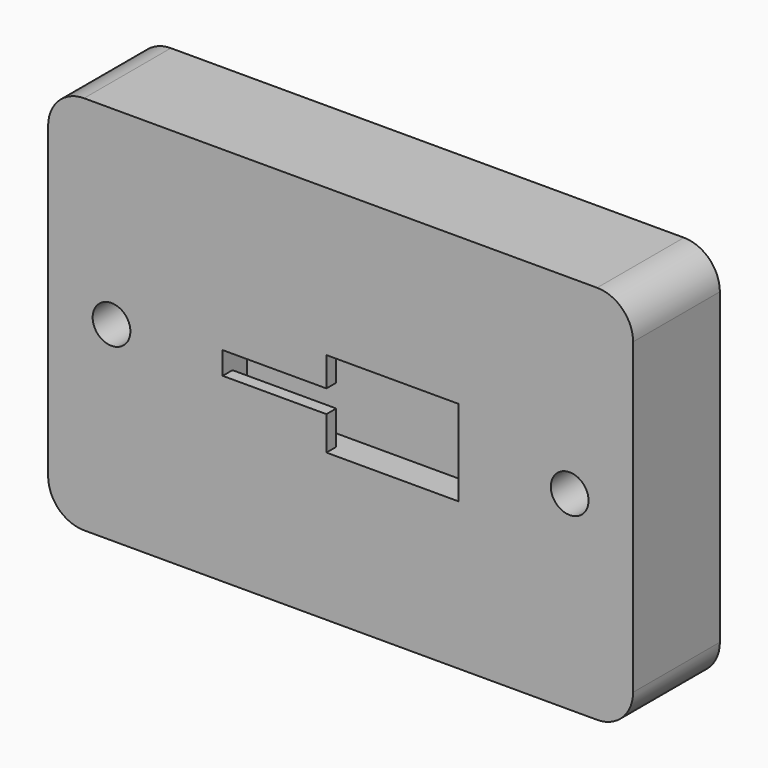
from build123d import *

# Parameters (mm, degrees)
F0_W     = 62
F0_H     = 40.32
F1_DEPTH = 11.5
F2_W     = 25
F2_H     = 9.1
F3_DEPTH = 3.2
F4_W     = 10.9982
F4_H     = 3.114462
F4_H_2   = 3.585538
F5_DEPTH = 1.3
F6_R     = 3.81
F7_R     = 2
F8_DEPTH = 15.24


with BuildPart() as f1:
    # F0 (on Front) → F1 (new body)
    with BuildSketch(Plane.XZ):
        Rectangle(F0_W, F0_H)
    extrude(amount=F1_DEPTH)

    # F2 (on face) → F3 (cut)
    with BuildSketch(Plane.XZ.offset(11.5)):
        Rectangle(F2_W, F2_H)
    extrude(amount=-F3_DEPTH, mode=Mode.SUBTRACT)

    # F4 (on face) → F5 (join)
    with BuildSketch(Plane.XZ.offset(11.5)):
        with Locations((-7.0009, 2.992769)):
            Rectangle(F4_W, F4_H)
        with Locations((-7.0009, -2.757231)):
            Rectangle(F4_W, F4_H_2)
    extrude(amount=-F5_DEPTH)

    # F6
    f6_edges = [f1.edges().sort_by_distance(p)[0] for p in [
        (-31, -5.75, 20.16),
        (31, -5.75, 20.16),
        (31, -5.75, -20.16),
        (-31, -5.75, -20.16),
    ]]
    fillet(f6_edges, radius=F6_R)

    # F7 (on face) → F8 (cut)
    with BuildSketch(Plane.XZ.offset(11.5)):
        with Locations((-24.2824, 0)):
            Circle(F7_R)
        with Locations((24.2824, 0)):
            Circle(F7_R)
    extrude(amount=-F8_DEPTH, mode=Mode.SUBTRACT)


solid = f1.part
